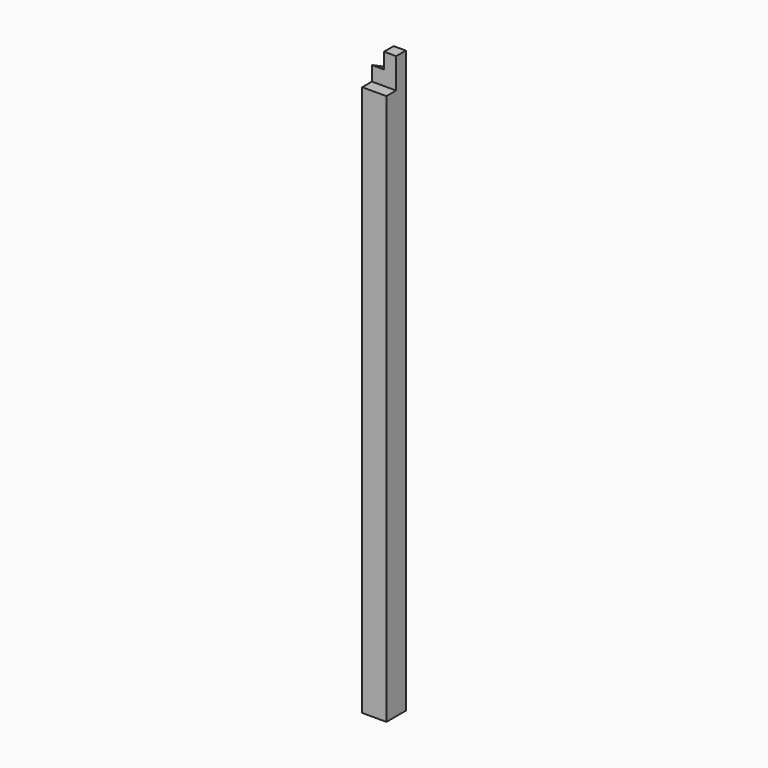
from build123d import *

# Parameters (mm, degrees)
F0_W          = 100
F0_H          = 100
F1_DEPTH      = 2400
F2_W          = 50
F2_H          = 125
F3_DEPTH      = 50
F3_DEPTH_BACK = 50
F5_DEPTH      = 50


with BuildPart() as f1:
    # F0 (on Top) → F1 (new body)
    with BuildSketch(Plane.XY):
        Rectangle(F0_W, F0_H)
    extrude(amount=F1_DEPTH)

    # F2 (on Right) → F3 (cut, two sides)
    with BuildSketch(Plane.YZ) as f3_sk:
        with Locations((-25, 2337.5)):
            Rectangle(F2_W, F2_H)
    extrude(amount=-F3_DEPTH, mode=Mode.SUBTRACT)
    extrude(f3_sk.sketch, amount=F3_DEPTH_BACK, mode=Mode.SUBTRACT)

    # F4 (on face) → F5 (cut)
    with BuildSketch(Plane(origin=(-50, 0, 0), x_dir=(0, -1, 0), z_dir=(-1, 0, 0))):
        Polygon((0, 2400), (-50, 2400), (-50, 2310.246), (0, 2335.246), align=None)
    extrude(amount=-F5_DEPTH, mode=Mode.SUBTRACT)


solid = f1.part
